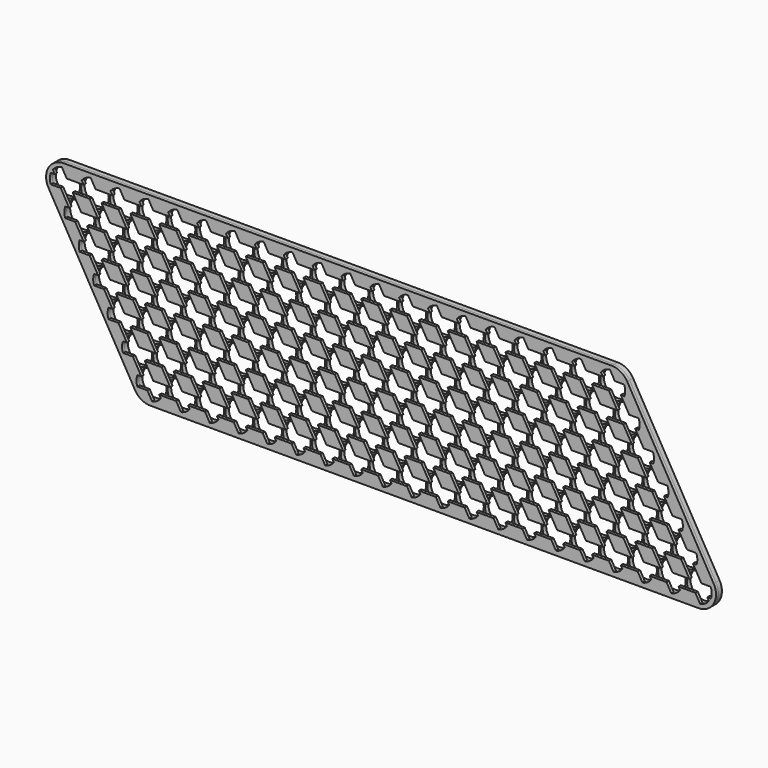
from build123d import *

# Parameters (mm, degrees)
F0_R     = 9.4
F1_DEPTH = 3
F3_DEPTH = 2
F5_DEPTH = 2
F7_DEPTH = 2


with BuildPart() as f1:
    # F0 (on Front) → F1 (new body)
    with BuildSketch(Plane.XZ):
        with BuildLine():
            Line((-10.392305, -6), (48.407695, -107.844587))
            ThreePointArc((48.407695, -107.844587), (52.8, -112.236892), (58.8, -113.844587))
            Line((58.8, -113.844587), (431.2, -113.844587))
            ThreePointArc((431.2, -113.844587), (441.592305, -107.844587), (441.592305, -95.844587))
            Line((441.592305, -95.844587), (382.792305, 6))
            ThreePointArc((382.792305, 6), (378.4, 10.392305), (372.4, 12))
            Line((372.4, 12), (0, 12))
            ThreePointArc((0, 12), (-10.392305, 6), (-10.392305, -6))
        make_face()
        with Locations((58.8, -101.844587)):
            Circle(F0_R, mode=Mode.SUBTRACT)
        with Locations((78.4, -101.844587)):
            Circle(F0_R, mode=Mode.SUBTRACT)
        with Locations((98, -101.844587)):
            Circle(F0_R, mode=Mode.SUBTRACT)
        with Locations((49, -84.87049)):
            Circle(F0_R, mode=Mode.SUBTRACT)
        with Locations((68.6, -84.87049)):
            Circle(F0_R, mode=Mode.SUBTRACT)
        with Locations((88.2, -84.87049)):
            Circle(F0_R, mode=Mode.SUBTRACT)
        with Locations((117.6, -101.844587)):
            Circle(F0_R, mode=Mode.SUBTRACT)
        with Locations((137.2, -101.844587)):
            Circle(F0_R, mode=Mode.SUBTRACT)
        with Locations((156.8, -101.844587)):
            Circle(F0_R, mode=Mode.SUBTRACT)
        with Locations((176.4, -101.844587)):
            Circle(F0_R, mode=Mode.SUBTRACT)
        with Locations((196, -101.844587)):
            Circle(F0_R, mode=Mode.SUBTRACT)
        with Locations((215.6, -101.844587)):
            Circle(F0_R, mode=Mode.SUBTRACT)
        with Locations((107.8, -84.87049)):
            Circle(F0_R, mode=Mode.SUBTRACT)
        with Locations((127.4, -84.87049)):
            Circle(F0_R, mode=Mode.SUBTRACT)
        with Locations((147, -84.87049)):
            Circle(F0_R, mode=Mode.SUBTRACT)
        with Locations((166.6, -84.87049)):
            Circle(F0_R, mode=Mode.SUBTRACT)
        with Locations((186.2, -84.87049)):
            Circle(F0_R, mode=Mode.SUBTRACT)
        with Locations((205.8, -84.87049)):
            Circle(F0_R, mode=Mode.SUBTRACT)
        with Locations((39.2, -67.896392)):
            Circle(F0_R, mode=Mode.SUBTRACT)
        with Locations((58.8, -67.896392)):
            Circle(F0_R, mode=Mode.SUBTRACT)
        with Locations((78.4, -67.896392)):
            Circle(F0_R, mode=Mode.SUBTRACT)
        with Locations((98, -67.896392)):
            Circle(F0_R, mode=Mode.SUBTRACT)
        with Locations((117.6, -67.896392)):
            Circle(F0_R, mode=Mode.SUBTRACT)
        with Locations((137.2, -67.896392)):
            Circle(F0_R, mode=Mode.SUBTRACT)
        with Locations((156.8, -67.896392)):
            Circle(F0_R, mode=Mode.SUBTRACT)
        with Locations((176.4, -67.896392)):
            Circle(F0_R, mode=Mode.SUBTRACT)
        with Locations((196, -67.896392)):
            Circle(F0_R, mode=Mode.SUBTRACT)
        with Locations((215.6, -67.896392)):
            Circle(F0_R, mode=Mode.SUBTRACT)
        with Locations((235.2, -101.844587)):
            Circle(F0_R, mode=Mode.SUBTRACT)
        with Locations((254.8, -101.844587)):
            Circle(F0_R, mode=Mode.SUBTRACT)
        with Locations((274.4, -101.844587)):
            Circle(F0_R, mode=Mode.SUBTRACT)
        with Locations((294, -101.844587)):
            Circle(F0_R, mode=Mode.SUBTRACT)
        with Locations((313.6, -101.844587)):
            Circle(F0_R, mode=Mode.SUBTRACT)
        with Locations((225.4, -84.87049)):
            Circle(F0_R, mode=Mode.SUBTRACT)
        with Locations((245, -84.87049)):
            Circle(F0_R, mode=Mode.SUBTRACT)
        with Locations((264.6, -84.87049)):
            Circle(F0_R, mode=Mode.SUBTRACT)
        with Locations((284.2, -84.87049)):
            Circle(F0_R, mode=Mode.SUBTRACT)
        with Locations((303.8, -84.87049)):
            Circle(F0_R, mode=Mode.SUBTRACT)
        with Locations((323.4, -84.87049)):
            Circle(F0_R, mode=Mode.SUBTRACT)
        with Locations((333.2, -101.844587)):
            Circle(F0_R, mode=Mode.SUBTRACT)
        with Locations((352.8, -101.844587)):
            Circle(F0_R, mode=Mode.SUBTRACT)
        with Locations((372.4, -101.844587)):
            Circle(F0_R, mode=Mode.SUBTRACT)
        with Locations((392, -101.844587)):
            Circle(F0_R, mode=Mode.SUBTRACT)
        with Locations((411.6, -101.844587)):
            Circle(F0_R, mode=Mode.SUBTRACT)
        with Locations((431.2, -101.844587)):
            Circle(F0_R, mode=Mode.SUBTRACT)
        with Locations((343, -84.87049)):
            Circle(F0_R, mode=Mode.SUBTRACT)
        with Locations((362.6, -84.87049)):
            Circle(F0_R, mode=Mode.SUBTRACT)
        with Locations((382.2, -84.87049)):
            Circle(F0_R, mode=Mode.SUBTRACT)
        with Locations((401.8, -84.87049)):
            Circle(F0_R, mode=Mode.SUBTRACT)
        with Locations((421.4, -84.87049)):
            Circle(F0_R, mode=Mode.SUBTRACT)
        with Locations((235.2, -67.896392)):
            Circle(F0_R, mode=Mode.SUBTRACT)
        with Locations((254.8, -67.896392)):
            Circle(F0_R, mode=Mode.SUBTRACT)
        with Locations((274.4, -67.896392)):
            Circle(F0_R, mode=Mode.SUBTRACT)
        with Locations((294, -67.896392)):
            Circle(F0_R, mode=Mode.SUBTRACT)
        with Locations((313.6, -67.896392)):
            Circle(F0_R, mode=Mode.SUBTRACT)
        with Locations((333.2, -67.896392)):
            Circle(F0_R, mode=Mode.SUBTRACT)
        with Locations((352.8, -67.896392)):
            Circle(F0_R, mode=Mode.SUBTRACT)
        with Locations((372.4, -67.896392)):
            Circle(F0_R, mode=Mode.SUBTRACT)
        with Locations((392, -67.896392)):
            Circle(F0_R, mode=Mode.SUBTRACT)
        with Locations((411.6, -67.896392)):
            Circle(F0_R, mode=Mode.SUBTRACT)
        with Locations((29.4, -50.922294)):
            Circle(F0_R, mode=Mode.SUBTRACT)
        with Locations((49, -50.922294)):
            Circle(F0_R, mode=Mode.SUBTRACT)
        with Locations((68.6, -50.922294)):
            Circle(F0_R, mode=Mode.SUBTRACT)
        with Locations((88.2, -50.922294)):
            Circle(F0_R, mode=Mode.SUBTRACT)
        with Locations((19.6, -33.948196)):
            Circle(F0_R, mode=Mode.SUBTRACT)
        with Locations((39.2, -33.948196)):
            Circle(F0_R, mode=Mode.SUBTRACT)
        with Locations((58.8, -33.948196)):
            Circle(F0_R, mode=Mode.SUBTRACT)
        with Locations((78.4, -33.948196)):
            Circle(F0_R, mode=Mode.SUBTRACT)
        with Locations((98, -33.948196)):
            Circle(F0_R, mode=Mode.SUBTRACT)
        with Locations((107.8, -50.922294)):
            Circle(F0_R, mode=Mode.SUBTRACT)
        with Locations((127.4, -50.922294)):
            Circle(F0_R, mode=Mode.SUBTRACT)
        with Locations((147, -50.922294)):
            Circle(F0_R, mode=Mode.SUBTRACT)
        with Locations((166.6, -50.922294)):
            Circle(F0_R, mode=Mode.SUBTRACT)
        with Locations((186.2, -50.922294)):
            Circle(F0_R, mode=Mode.SUBTRACT)
        with Locations((205.8, -50.922294)):
            Circle(F0_R, mode=Mode.SUBTRACT)
        with Locations((117.6, -33.948196)):
            Circle(F0_R, mode=Mode.SUBTRACT)
        with Locations((137.2, -33.948196)):
            Circle(F0_R, mode=Mode.SUBTRACT)
        with Locations((156.8, -33.948196)):
            Circle(F0_R, mode=Mode.SUBTRACT)
        with Locations((176.4, -33.948196)):
            Circle(F0_R, mode=Mode.SUBTRACT)
        with Locations((196, -33.948196)):
            Circle(F0_R, mode=Mode.SUBTRACT)
        with Locations((215.6, -33.948196)):
            Circle(F0_R, mode=Mode.SUBTRACT)
        with Locations((9.8, -16.974098)):
            Circle(F0_R, mode=Mode.SUBTRACT)
        with Locations((29.4, -16.974098)):
            Circle(F0_R, mode=Mode.SUBTRACT)
        with Locations((49, -16.974098)):
            Circle(F0_R, mode=Mode.SUBTRACT)
        with Locations((68.6, -16.974098)):
            Circle(F0_R, mode=Mode.SUBTRACT)
        with Locations((88.2, -16.974098)):
            Circle(F0_R, mode=Mode.SUBTRACT)
        Circle(F0_R, mode=Mode.SUBTRACT)
        with Locations((19.6, 0)):
            Circle(F0_R, mode=Mode.SUBTRACT)
        with Locations((39.2, 0)):
            Circle(F0_R, mode=Mode.SUBTRACT)
        with Locations((58.8, 0)):
            Circle(F0_R, mode=Mode.SUBTRACT)
        with Locations((78.4, 0)):
            Circle(F0_R, mode=Mode.SUBTRACT)
        with Locations((98, 0)):
            Circle(F0_R, mode=Mode.SUBTRACT)
        with Locations((107.8, -16.974098)):
            Circle(F0_R, mode=Mode.SUBTRACT)
        with Locations((127.4, -16.974098)):
            Circle(F0_R, mode=Mode.SUBTRACT)
        with Locations((147, -16.974098)):
            Circle(F0_R, mode=Mode.SUBTRACT)
        with Locations((166.6, -16.974098)):
            Circle(F0_R, mode=Mode.SUBTRACT)
        with Locations((186.2, -16.974098)):
            Circle(F0_R, mode=Mode.SUBTRACT)
        with Locations((205.8, -16.974098)):
            Circle(F0_R, mode=Mode.SUBTRACT)
        with Locations((117.6, 0)):
            Circle(F0_R, mode=Mode.SUBTRACT)
        with Locations((137.2, 0)):
            Circle(F0_R, mode=Mode.SUBTRACT)
        with Locations((156.8, 0)):
            Circle(F0_R, mode=Mode.SUBTRACT)
        with Locations((176.4, 0)):
            Circle(F0_R, mode=Mode.SUBTRACT)
        with Locations((196, 0)):
            Circle(F0_R, mode=Mode.SUBTRACT)
        with Locations((215.6, 0)):
            Circle(F0_R, mode=Mode.SUBTRACT)
        with Locations((225.4, -50.922294)):
            Circle(F0_R, mode=Mode.SUBTRACT)
        with Locations((245, -50.922294)):
            Circle(F0_R, mode=Mode.SUBTRACT)
        with Locations((264.6, -50.922294)):
            Circle(F0_R, mode=Mode.SUBTRACT)
        with Locations((284.2, -50.922294)):
            Circle(F0_R, mode=Mode.SUBTRACT)
        with Locations((303.8, -50.922294)):
            Circle(F0_R, mode=Mode.SUBTRACT)
        with Locations((323.4, -50.922294)):
            Circle(F0_R, mode=Mode.SUBTRACT)
        with Locations((235.2, -33.948196)):
            Circle(F0_R, mode=Mode.SUBTRACT)
        with Locations((254.8, -33.948196)):
            Circle(F0_R, mode=Mode.SUBTRACT)
        with Locations((274.4, -33.948196)):
            Circle(F0_R, mode=Mode.SUBTRACT)
        with Locations((294, -33.948196)):
            Circle(F0_R, mode=Mode.SUBTRACT)
        with Locations((313.6, -33.948196)):
            Circle(F0_R, mode=Mode.SUBTRACT)
        with Locations((343, -50.922294)):
            Circle(F0_R, mode=Mode.SUBTRACT)
        with Locations((362.6, -50.922294)):
            Circle(F0_R, mode=Mode.SUBTRACT)
        with Locations((382.2, -50.922294)):
            Circle(F0_R, mode=Mode.SUBTRACT)
        with Locations((401.8, -50.922294)):
            Circle(F0_R, mode=Mode.SUBTRACT)
        with Locations((333.2, -33.948196)):
            Circle(F0_R, mode=Mode.SUBTRACT)
        with Locations((352.8, -33.948196)):
            Circle(F0_R, mode=Mode.SUBTRACT)
        with Locations((372.4, -33.948196)):
            Circle(F0_R, mode=Mode.SUBTRACT)
        with Locations((392, -33.948196)):
            Circle(F0_R, mode=Mode.SUBTRACT)
        with Locations((225.4, -16.974098)):
            Circle(F0_R, mode=Mode.SUBTRACT)
        with Locations((245, -16.974098)):
            Circle(F0_R, mode=Mode.SUBTRACT)
        with Locations((264.6, -16.974098)):
            Circle(F0_R, mode=Mode.SUBTRACT)
        with Locations((284.2, -16.974098)):
            Circle(F0_R, mode=Mode.SUBTRACT)
        with Locations((303.8, -16.974098)):
            Circle(F0_R, mode=Mode.SUBTRACT)
        with Locations((323.4, -16.974098)):
            Circle(F0_R, mode=Mode.SUBTRACT)
        with Locations((235.2, 0)):
            Circle(F0_R, mode=Mode.SUBTRACT)
        with Locations((254.8, 0)):
            Circle(F0_R, mode=Mode.SUBTRACT)
        with Locations((274.4, 0)):
            Circle(F0_R, mode=Mode.SUBTRACT)
        with Locations((294, 0)):
            Circle(F0_R, mode=Mode.SUBTRACT)
        with Locations((313.6, 0)):
            Circle(F0_R, mode=Mode.SUBTRACT)
        with Locations((343, -16.974098)):
            Circle(F0_R, mode=Mode.SUBTRACT)
        with Locations((362.6, -16.974098)):
            Circle(F0_R, mode=Mode.SUBTRACT)
        with Locations((382.2, -16.974098)):
            Circle(F0_R, mode=Mode.SUBTRACT)
        with Locations((333.2, 0)):
            Circle(F0_R, mode=Mode.SUBTRACT)
        with Locations((352.8, 0)):
            Circle(F0_R, mode=Mode.SUBTRACT)
        with Locations((372.4, 0)):
            Circle(F0_R, mode=Mode.SUBTRACT)
    extrude(amount=F1_DEPTH)


with BuildPart() as f3:
    # F2 (on face) → F3 (new body)
    with BuildSketch(Plane.XZ.offset(3)):
        with BuildLine():
            Line((372.4, 12), (0, 12))
            ThreePointArc((0, 12), (-10.392305, 6), (-10.392305, -6))
            Line((-10.392305, -6), (48.407695, -107.844587))
            ThreePointArc((48.407695, -107.844587), (52.8, -112.236892), (58.8, -113.844587))
            Line((58.8, -113.844587), (431.2, -113.844587))
            ThreePointArc((431.2, -113.844587), (441.592305, -107.844587), (441.592305, -95.844587))
            Line((441.592305, -95.844587), (382.792305, 6))
            ThreePointArc((382.792305, 6), (378.4, 10.392305), (372.4, 12))
        make_face()
    extrude(amount=F3_DEPTH)

    # F4 (on face) → F5 (cut, through all)
    with BuildSketch(Plane.XZ.offset(5)):
        with BuildLine():
            Line((380.688832, 3.5), (-8.724105, 3.5))
            ThreePointArc((-8.724105, 3.5), (-9.4, 0), (-8.724105, -3.5))
            Line((-8.724105, -3.5), (380.906468, -3.5))
            ThreePointArc((380.906468, -3.5), (381.473897, 0.021025), (380.688832, 3.5))
        make_face()
        with BuildLine():
            Line((390.488832, -13.474098), (1.075895, -13.474098))
            ThreePointArc((1.075895, -13.474098), (0.4, -16.974098), (1.075895, -20.474098))
            Line((1.075895, -20.474098), (390.706468, -20.474098))
            ThreePointArc((390.706468, -20.474098), (391.273897, -16.953073), (390.488832, -13.474098))
        make_face()
        with BuildLine():
            Line((400.288832, -30.448196), (10.875895, -30.448196))
            ThreePointArc((10.875895, -30.448196), (10.2, -33.948196), (10.875895, -37.448196))
            Line((10.875895, -37.448196), (400.506468, -37.448196))
            ThreePointArc((400.506468, -37.448196), (401.073897, -33.927171), (400.288832, -30.448196))
        make_face()
        with BuildLine():
            Line((410.088832, -47.422294), (20.675895, -47.422294))
            ThreePointArc((20.675895, -47.422294), (20, -50.922294), (20.675895, -54.422294))
            Line((20.675895, -54.422294), (410.306468, -54.422294))
            ThreePointArc((410.306468, -54.422294), (410.873897, -50.901269), (410.088832, -47.422294))
        make_face()
        with BuildLine():
            Line((419.888832, -64.396392), (30.475895, -64.396392))
            ThreePointArc((30.475895, -64.396392), (29.8, -67.896392), (30.475895, -71.396392))
            Line((30.475895, -71.396392), (420.106468, -71.396392))
            ThreePointArc((420.106468, -71.396392), (420.673897, -67.875367), (419.888832, -64.396392))
        make_face()
        with BuildLine():
            Line((429.688832, -81.37049), (40.275895, -81.37049))
            ThreePointArc((40.275895, -81.37049), (39.6, -84.87049), (40.275895, -88.37049))
            Line((40.275895, -88.37049), (429.906468, -88.37049))
            ThreePointArc((429.906468, -88.37049), (430.473897, -84.849464), (429.688832, -81.37049))
        make_face()
        with BuildLine():
            Line((439.488832, -98.344587), (50.075895, -98.344587))
            ThreePointArc((50.075895, -98.344587), (49.4, -101.844587), (50.075895, -105.344587))
            Line((50.075895, -105.344587), (439.706468, -105.344587))
            ThreePointArc((439.706468, -105.344587), (440.273897, -101.823562), (439.488832, -98.344587))
        make_face()
    extrude(amount=-F5_DEPTH, mode=Mode.SUBTRACT)

    # F6 (on face) → F7 (cut)
    with BuildSketch(Plane.XZ.offset(5)):
        with BuildLine():
            Line((65.939985, -107.211405), (-1.330963, 9.305296))
            ThreePointArc((-1.330963, 9.305296), (-4.7, 8.140639), (-7.393141, 5.805296))
            Line((-7.393141, 5.805296), (60.022145, -110.961405))
            ThreePointArc((60.022145, -110.961405), (63.343484, -109.658334), (65.939985, -107.211405))
        make_face()
        with BuildLine():
            Line((85.539985, -107.211405), (18.269037, 9.305296))
            ThreePointArc((18.269037, 9.305296), (14.9, 8.140639), (12.206859, 5.805296))
            Line((12.206859, 5.805296), (79.622145, -110.961405))
            ThreePointArc((79.622145, -110.961405), (82.943484, -109.658334), (85.539985, -107.211405))
        make_face()
        with BuildLine():
            Line((105.139985, -107.211405), (37.869037, 9.305296))
            ThreePointArc((37.869037, 9.305296), (34.5, 8.140639), (31.806859, 5.805296))
            Line((31.806859, 5.805296), (99.222145, -110.961405))
            ThreePointArc((99.222145, -110.961405), (102.543484, -109.658334), (105.139985, -107.211405))
        make_face()
        with BuildLine():
            Line((124.739985, -107.211405), (57.469037, 9.305296))
            ThreePointArc((57.469037, 9.305296), (54.1, 8.140639), (51.406859, 5.805296))
            Line((51.406859, 5.805296), (118.822145, -110.961405))
            ThreePointArc((118.822145, -110.961405), (122.143484, -109.658334), (124.739985, -107.211405))
        make_face()
        with BuildLine():
            Line((144.339985, -107.211405), (77.069037, 9.305296))
            ThreePointArc((77.069037, 9.305296), (73.7, 8.140639), (71.006859, 5.805296))
            Line((71.006859, 5.805296), (138.422145, -110.961405))
            ThreePointArc((138.422145, -110.961405), (141.743484, -109.658334), (144.339985, -107.211405))
        make_face()
        with BuildLine():
            Line((163.939985, -107.211405), (96.669037, 9.305296))
            ThreePointArc((96.669037, 9.305296), (93.3, 8.140639), (90.606859, 5.805296))
            Line((90.606859, 5.805296), (158.022145, -110.961405))
            ThreePointArc((158.022145, -110.961405), (161.343484, -109.658334), (163.939985, -107.211405))
        make_face()
        with BuildLine():
            Line((183.539985, -107.211405), (116.269037, 9.305296))
            ThreePointArc((116.269037, 9.305296), (112.9, 8.140639), (110.206859, 5.805296))
            Line((110.206859, 5.805296), (177.622145, -110.961405))
            ThreePointArc((177.622145, -110.961405), (180.943484, -109.658334), (183.539985, -107.211405))
        make_face()
        with BuildLine():
            Line((203.139985, -107.211405), (135.869037, 9.305296))
            ThreePointArc((135.869037, 9.305296), (132.5, 8.140639), (129.806859, 5.805296))
            Line((129.806859, 5.805296), (197.222145, -110.961405))
            ThreePointArc((197.222145, -110.961405), (200.543484, -109.658334), (203.139985, -107.211405))
        make_face()
        with BuildLine():
            Line((222.739985, -107.211405), (155.469037, 9.305296))
            ThreePointArc((155.469037, 9.305296), (152.1, 8.140639), (149.406859, 5.805296))
            Line((149.406859, 5.805296), (216.822145, -110.961405))
            ThreePointArc((216.822145, -110.961405), (220.143484, -109.658334), (222.739985, -107.211405))
        make_face()
        with BuildLine():
            Line((242.339985, -107.211405), (175.069037, 9.305296))
            ThreePointArc((175.069037, 9.305296), (171.7, 8.140639), (169.006859, 5.805296))
            Line((169.006859, 5.805296), (236.422145, -110.961405))
            ThreePointArc((236.422145, -110.961405), (239.743484, -109.658334), (242.339985, -107.211405))
        make_face()
        with BuildLine():
            Line((261.939985, -107.211405), (194.669037, 9.305296))
            ThreePointArc((194.669037, 9.305296), (191.3, 8.140639), (188.606859, 5.805296))
            Line((188.606859, 5.805296), (256.022145, -110.961405))
            ThreePointArc((256.022145, -110.961405), (259.343484, -109.658334), (261.939985, -107.211405))
        make_face()
        with BuildLine():
            Line((281.539985, -107.211405), (214.269037, 9.305296))
            ThreePointArc((214.269037, 9.305296), (210.9, 8.140639), (208.206859, 5.805296))
            Line((208.206859, 5.805296), (275.622145, -110.961405))
            ThreePointArc((275.622145, -110.961405), (278.943484, -109.658334), (281.539985, -107.211405))
        make_face()
        with BuildLine():
            Line((301.139985, -107.211405), (233.869037, 9.305296))
            ThreePointArc((233.869037, 9.305296), (230.5, 8.140639), (227.806859, 5.805296))
            Line((227.806859, 5.805296), (295.222145, -110.961405))
            ThreePointArc((295.222145, -110.961405), (298.543484, -109.658334), (301.139985, -107.211405))
        make_face()
        with BuildLine():
            Line((320.739985, -107.211405), (253.469037, 9.305296))
            ThreePointArc((253.469037, 9.305296), (250.1, 8.140639), (247.406859, 5.805296))
            Line((247.406859, 5.805296), (314.822145, -110.961405))
            ThreePointArc((314.822145, -110.961405), (318.143484, -109.658334), (320.739985, -107.211405))
        make_face()
        with BuildLine():
            Line((340.339985, -107.211405), (273.069037, 9.305296))
            ThreePointArc((273.069037, 9.305296), (269.7, 8.140639), (267.006859, 5.805296))
            Line((267.006859, 5.805296), (334.422145, -110.961405))
            ThreePointArc((334.422145, -110.961405), (337.743484, -109.658334), (340.339985, -107.211405))
        make_face()
        with BuildLine():
            Line((359.939985, -107.211405), (292.669037, 9.305296))
            ThreePointArc((292.669037, 9.305296), (289.3, 8.140639), (286.606859, 5.805296))
            Line((286.606859, 5.805296), (354.022145, -110.961405))
            ThreePointArc((354.022145, -110.961405), (357.343484, -109.658334), (359.939985, -107.211405))
        make_face()
        with BuildLine():
            Line((379.539985, -107.211405), (312.269037, 9.305296))
            ThreePointArc((312.269037, 9.305296), (308.9, 8.140639), (306.206859, 5.805296))
            Line((306.206859, 5.805296), (373.622145, -110.961405))
            ThreePointArc((373.622145, -110.961405), (376.943484, -109.658334), (379.539985, -107.211405))
        make_face()
        with BuildLine():
            Line((399.139985, -107.211405), (331.869037, 9.305296))
            ThreePointArc((331.869037, 9.305296), (328.5, 8.140639), (325.806859, 5.805296))
            Line((325.806859, 5.805296), (393.222145, -110.961405))
            ThreePointArc((393.222145, -110.961405), (396.543484, -109.658334), (399.139985, -107.211405))
        make_face()
        with BuildLine():
            Line((418.739985, -107.211405), (351.469037, 9.305296))
            ThreePointArc((351.469037, 9.305296), (348.1, 8.140639), (345.406859, 5.805296))
            Line((345.406859, 5.805296), (412.822145, -110.961405))
            ThreePointArc((412.822145, -110.961405), (416.143484, -109.658334), (418.739985, -107.211405))
        make_face()
        with BuildLine():
            Line((438.339985, -107.211405), (371.069037, 9.305296))
            ThreePointArc((371.069037, 9.305296), (367.7, 8.140639), (365.006859, 5.805296))
            Line((365.006859, 5.805296), (432.422145, -110.961405))
            ThreePointArc((432.422145, -110.961405), (435.743484, -109.658334), (438.339985, -107.211405))
        make_face()
    extrude(amount=-F7_DEPTH, mode=Mode.SUBTRACT)


solid = Compound([f1.part, f3.part])
